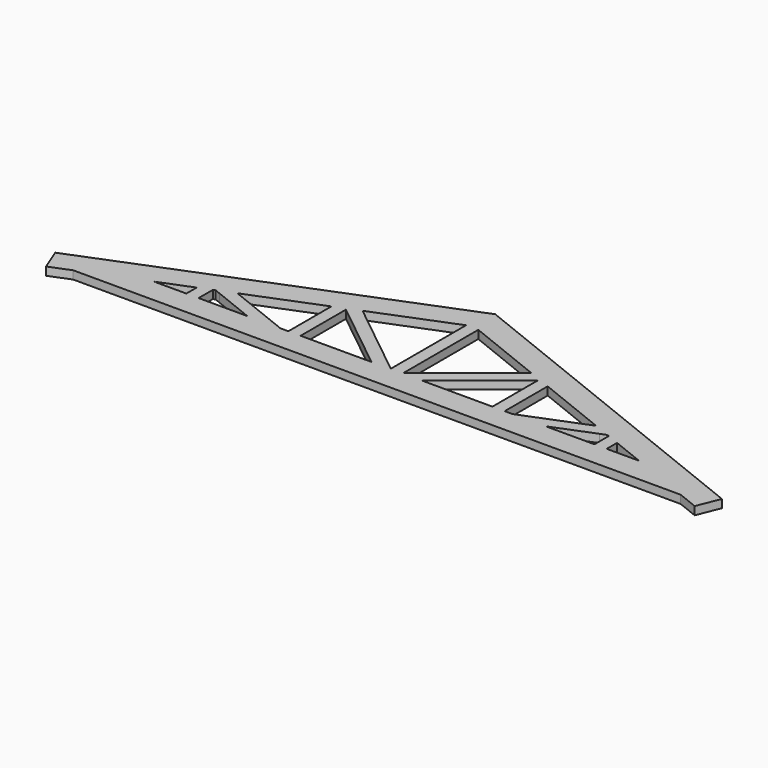
from build123d import *

# Parameters (mm, degrees)
F1_DEPTH = 2


with BuildPart() as f1:
    # F0 (on Top) → F1 (new body)
    with BuildSketch(Plane.XY):
        Polygon((76.114172, 2.78543), (0, 33.231099), (-76.114172, 2.78543), (-81.685032, 0.557086), (-79.456688, -5.013774), (-74.422253, -3), (-66.922253, -3), (66.922253, -3), (74.422253, -3), (79.456688, -5.013774), (81.685032, 0.557086), align=None)
        Polygon((-51.5, 6.168901), (-51.5, 3), (-59.422253, 3), align=None, mode=Mode.SUBTRACT)
        Polygon((-36.538874, 3), (-48.5, 3), (-48.5, 7.368901), (-47.980563, 7.576676), (-46.518212, 6.991736), align=None, mode=Mode.SUBTRACT)
        Polygon((-26.5, 16.168901), (-26.5, 3), (-28.461126, 3), (-43.94169, 9.192225), align=None, mode=Mode.SUBTRACT)
        Polygon((-6.151172, 3), (-23.5, 3), (-23.5, 16.768901), (-23.5, 16.879063), (-23.24446, 16.674631), align=None, mode=Mode.SUBTRACT)
        Polygon((23.5, 16.768901), (23.5, 3), (6.151172, 3), (23.24446, 16.674631), (23.5, 16.879063), align=None, mode=Mode.SUBTRACT)
        Polygon((43.94169, 9.192225), (28.461126, 3), (26.5, 3), (26.5, 16.168901), align=None, mode=Mode.SUBTRACT)
        Polygon((48.5, 7.368901), (48.5, 3), (36.538874, 3), (46.518212, 6.991736), (47.980563, 7.576676), align=None, mode=Mode.SUBTRACT)
        Polygon((59.422253, 3), (51.5, 3), (51.5, 6.168901), align=None, mode=Mode.SUBTRACT)
        Polygon((-20.706637, 18.486247), (-1.5, 26.168901), (-1.5, 3.120937), align=None, mode=Mode.SUBTRACT)
        Polygon((1.5, 3.120937), (1.5, 26.168901), (20.706637, 18.486247), align=None, mode=Mode.SUBTRACT)
    extrude(amount=F1_DEPTH)


solid = f1.part
